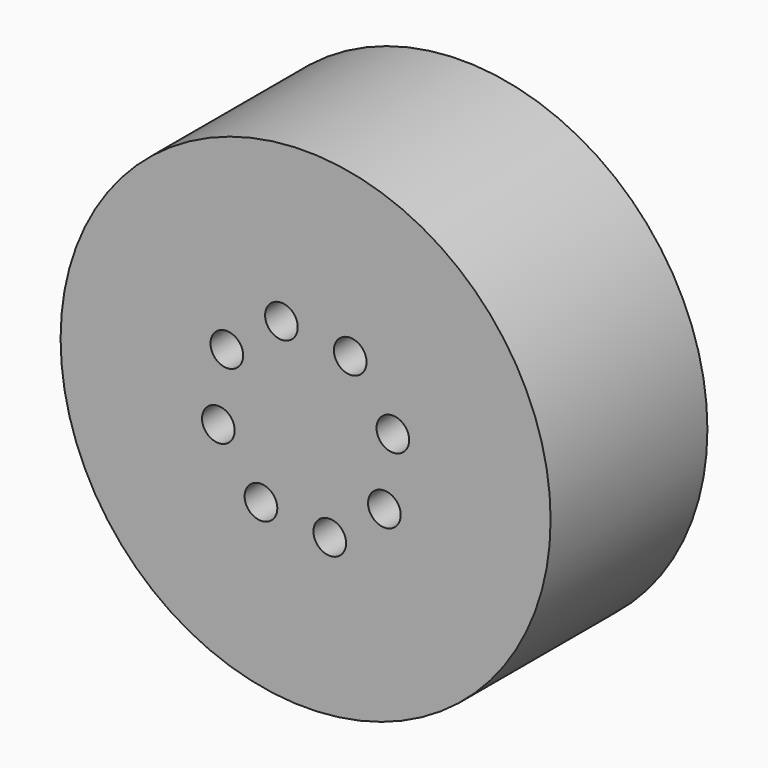
from build123d import *

# Parameters (mm, degrees)
F0_R      = 19.05
F0_R_2    = 8.89
F1_DEPTH  = 15.24
F2_DEPTH  = 15.24
F3_R      = 8.89
F4_DEPTH  = 12.192
F5_R      = 1.27
F6_DEPTH  = 3.048
F7_R      = 0.3175
F8_DEPTH  = 0.127
F9_R      = 1.27
F10_DEPTH = 1.27


with BuildPart() as f1:
    # F0 (on Front) → F1 (new body)
    with BuildSketch(Plane.XZ):
        Circle(F0_R)
        Circle(F0_R_2, mode=Mode.SUBTRACT)
    extrude(amount=F1_DEPTH)

    # F0 (on Front) → F2 (join)
    with BuildSketch(Plane.XZ):
        Circle(F0_R_2)
    extrude(amount=F2_DEPTH)

    # F3 (on Front) → F4 (cut)
    with BuildSketch(Plane.XZ):
        Circle(F3_R)
    extrude(amount=F4_DEPTH, mode=Mode.SUBTRACT)

    # F5 (on face) → F6 (cut)
    with BuildSketch(Plane(origin=(0, -12.192, 0), x_dir=(-1, 0, 0), z_dir=(0, 1, 0))):
        with Locations((-6.784475, 1.878075)):
            Circle(F5_R)
        with Locations((-3.469349, 6.125348)):
            Circle(F5_R)
        with Locations((1.878075, 6.784475)):
            Circle(F5_R)
        with Locations((6.125348, 3.469349)):
            Circle(F5_R)
        with Locations((3.469349, -6.125348)):
            Circle(F5_R)
        with Locations((6.784475, -1.878075)):
            Circle(F5_R)
        with Locations((-1.878075, -6.784475)):
            Circle(F5_R)
        with Locations((-6.125348, -3.469349)):
            Circle(F5_R)
    extrude(amount=-F6_DEPTH, mode=Mode.SUBTRACT)


with BuildPart() as f8:
    # F7 (on Front) → F8 (new body)
    with BuildSketch(Plane.XZ):
        with Locations((0.406717, 3.099575)):
            Circle(F7_R)
        with Locations((2.150926, 2.268547)):
            Circle(F7_R)
        with Locations((3.073554, 0.571011)):
            Circle(F7_R)
        with Locations((2.822189, -1.344632)):
            Circle(F7_R)
        with Locations((1.492844, -2.746671)):
            Circle(F7_R)
        with Locations((-0.406717, -3.099575)):
            Circle(F7_R)
        with Locations((-2.150926, -2.268547)):
            Circle(F7_R)
        with Locations((-3.073554, -0.571011)):
            Circle(F7_R)
        with Locations((-2.822189, 1.344632)):
            Circle(F7_R)
        with Locations((-1.492844, 2.746671)):
            Circle(F7_R)
        with Locations((-3.073554, -0.571011)):
            Circle(F7_R)
    extrude(amount=F8_DEPTH)


with BuildPart() as f10:
    # F9 (on Front) → F10 (new body)
    with BuildSketch(Plane.XZ):
        Circle(F9_R)
    extrude(amount=-F10_DEPTH)


solid = Compound([f1.part, f8.part, f10.part])
